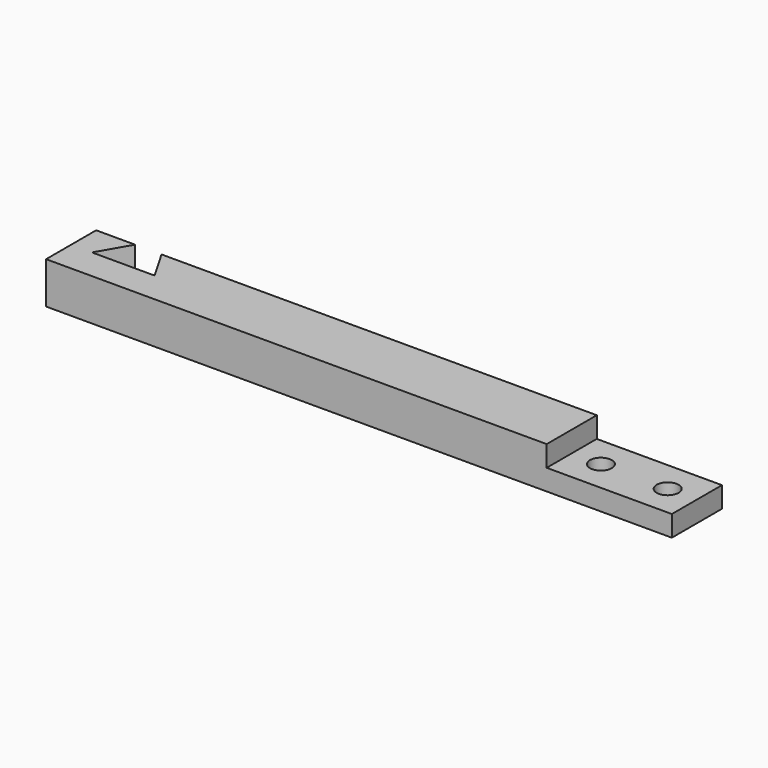
from build123d import *

# Parameters (mm, degrees)
PAD_DEPTH       = 15
SKETCH001_R     = 2.625
POCKET_DEPTH    = 5
POCKET001_DEPTH = 10


with BuildPart() as part:
    # Sketch → Pad (new body)
    with BuildSketch(Plane.XZ):
        Polygon((-68.87526, -5.227487), (-68.87526, 4.772513), (51.12474, 4.772513), (51.12474, -0.227487), (81.12474, -0.227487), (81.12474, -5.227487), align=None)
    extrude(amount=PAD_DEPTH)

    # Sketch001 (on Face4 of Pad) → Pocket (cut)
    with BuildSketch(Plane(origin=(0, 0, -0.227487), x_dir=(-1, 0, 0), z_dir=(0, 0, 1))):
        with Locations((-74.12474, 7.5)):
            Circle(SKETCH001_R)
        with Locations((-58.12474, 7.5)):
            Circle(SKETCH001_R)
    extrude(amount=-POCKET_DEPTH, mode=Mode.SUBTRACT)

    # Sketch002 (on Face3 of Pocket) → Pocket001 (cut)
    with BuildSketch(Plane(origin=(0, 0, 4.772513), x_dir=(-1, 0, 0), z_dir=(0, 0, 1))):
        Polygon((56.092139, -5), (48.87526, 7.5), (63.87526, 7.5), (56.658382, -5), align=None)
    extrude(amount=-POCKET001_DEPTH, mode=Mode.SUBTRACT)


solid = part.part
